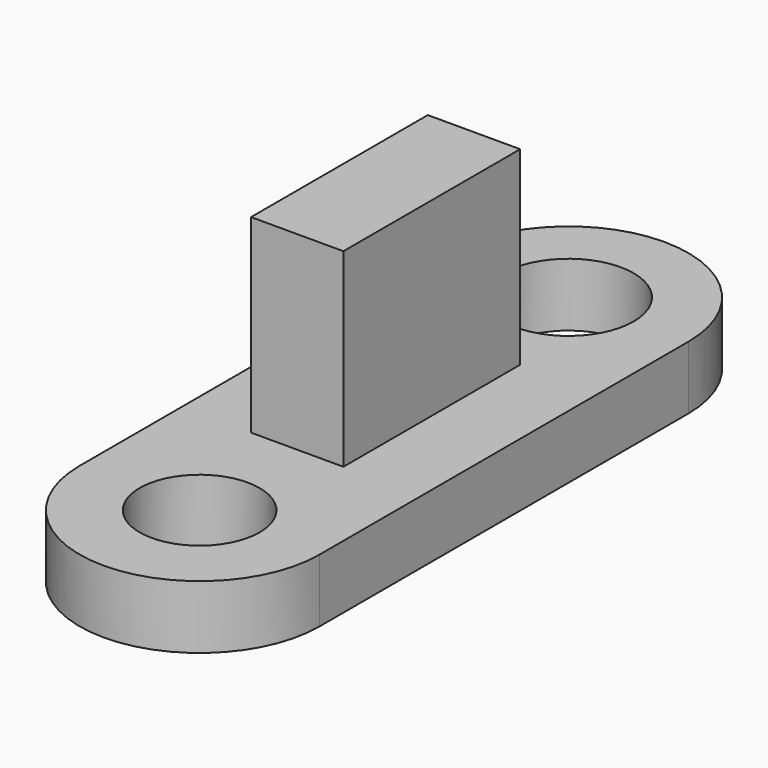
from build123d import *

# Parameters (mm, degrees)
F0_R     = 6.0248478502
F0_R_2   = 6.5557456881
F1_DEPTH = 6.35
F0_W     = 4.6359449625
F0_H     = 22.1776319668
F2_DEPTH = 25.4


with BuildPart() as f1:
    # F0 (on Top) → F1 (new body)
    with BuildSketch(Plane.XY):
        with BuildLine():
            ThreePointArc((-12.6521838829, 25.6658587605), (-24.7018816881, 37.7155565657), (-36.7515794933, 25.6658587605))
            Line((-36.7515794933, 25.6658587605), (-36.7515794933, -20.6049848348))
            ThreePointArc((-36.7515794933, -20.6049848348), (-24.7018816881, -32.65468264), (-12.6521838829, -20.6049848348))
            Line((-12.6521838829, -20.6049848348), (-12.6521838829, 25.6658587605))
        make_face()
        with Locations((-24.7018816881, -20.6049848348)):
            Circle(F0_R, mode=Mode.SUBTRACT)
        Polygon((-25.1393578947, 14.3663082272), (-20.5034129322, 14.3663082272), (-20.5034129322, -7.8113237396), (-25.1393578947, -7.8113237396), (-29.7753028572, -7.8113237396), (-29.7753028572, 14.3663082272), align=None, mode=Mode.SUBTRACT)
        with Locations((-24.7018816881, 25.6658587605)):
            Circle(F0_R_2, mode=Mode.SUBTRACT)
    extrude(amount=F1_DEPTH)

    # F0 (on Top) → F2 (join)
    with BuildSketch(Plane.XY):
        with Locations((-22.8213854134, 3.2774922438)):
            Rectangle(F0_W, F0_H)
        with Locations((-27.4573303759, 3.2774922438)):
            Rectangle(F0_W, F0_H)
    extrude(amount=F2_DEPTH)


solid = f1.part
